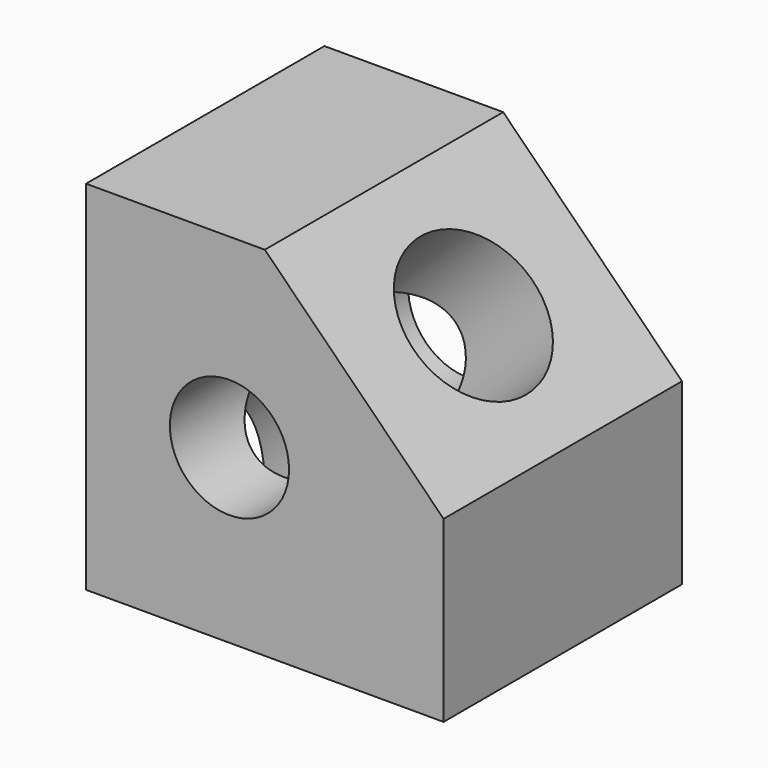
from build123d import *

# Parameters (mm, degrees)
F1_DEPTH = 31.75
F2_R     = 15.875
F3_DEPTH = 80.823305
F4_R     = 12.7
F5_DEPTH = 63.501


with BuildPart() as f1:
    # F0 (on Front) → F1 (new body, symmetric)
    with BuildSketch(Plane.XZ):
        Polygon((0, 76.2), (0, 0), (76.2, 0), (76.2, 38.1), (38.1, 76.2), align=None)
    extrude(amount=F1_DEPTH, both=True)

    # F2 (on face) → F3 (cut, through all)
    with BuildSketch(Plane(origin=(57.15, 0, 57.15), x_dir=(0.707107, 0, -0.707107), z_dir=(0.707107, 0, 0.707107))):
        Circle(F2_R)
    extrude(amount=-F3_DEPTH, mode=Mode.SUBTRACT)

    # F4 (on face) → F5 (cut, through all)
    with BuildSketch(Plane.XZ.offset(31.75)):
        with Locations((30.563999, 36.636498)):
            Circle(F4_R)
    extrude(amount=-F5_DEPTH, mode=Mode.SUBTRACT)


solid = f1.part
